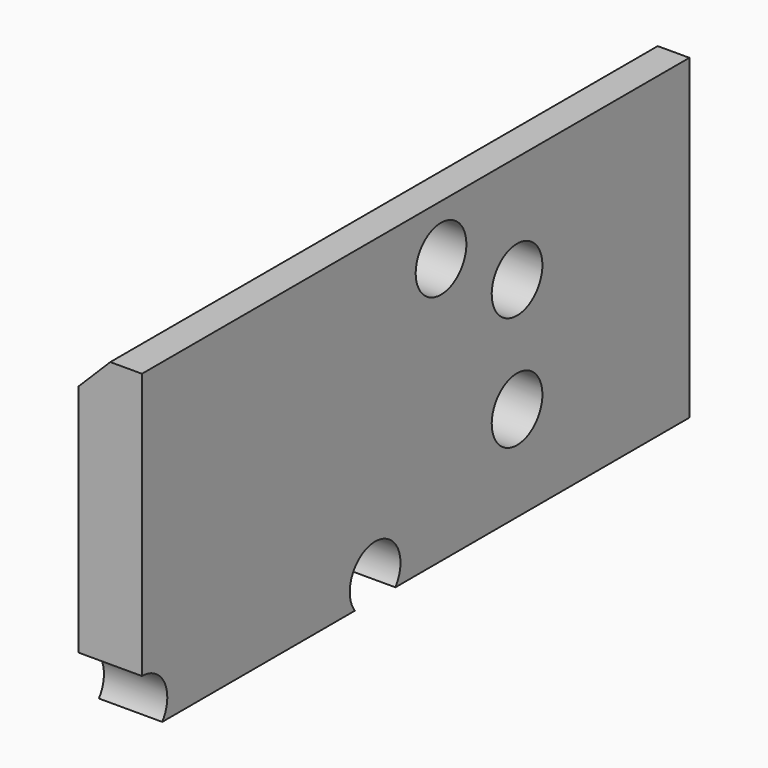
from build123d import *

# Parameters (mm, degrees)
CYLINDER455_R     = 5
CYLINDER455_DEPTH = 100
CYLINDER449_R     = 5
CYLINDER449_DEPTH = 100
CYLINDER457_R     = 5
CYLINDER457_DEPTH = 100
CYLINDER456_R     = 5
CYLINDER456_DEPTH = 100
CYLINDER450_R     = 5
CYLINDER450_DEPTH = 100
CYLINDER458_R     = 5
CYLINDER458_DEPTH = 100
CYLINDER451_R     = 5
CYLINDER451_DEPTH = 100
CYLINDER448_R     = 5
CYLINDER448_DEPTH = 100
BOX197_W          = 10
BOX197_H          = 108
BOX197_DEPTH      = 50
CHAMFER001_SIZE   = 5


with BuildPart() as obj1:
    # Cylinder455 → Cylinder455 (new body)
    with BuildSketch(Plane(origin=(24, -51, 25), x_dir=(0, 0, -1), z_dir=(1, 0, 0))):
        Circle(CYLINDER455_R)
    extrude(amount=CYLINDER455_DEPTH)


with BuildPart() as obj2:
    # Cylinder449 → Cylinder449 (new body)
    with BuildSketch(Plane(origin=(24, 36, 34), x_dir=(0, 0, -1), z_dir=(1, 0, 0))):
        Circle(CYLINDER449_R)
    extrude(amount=CYLINDER449_DEPTH)


with BuildPart() as obj3:
    # Cylinder457 → Cylinder457 (new body)
    with BuildSketch(Plane(origin=(24, -36, 34), x_dir=(0, 0, -1), z_dir=(1, 0, 0))):
        Circle(CYLINDER457_R)
    extrude(amount=CYLINDER457_DEPTH)


with BuildPart() as obj4:
    # Cylinder456 → Cylinder456 (new body)
    with BuildSketch(Plane(origin=(24, -23, -5), x_dir=(0, 0, -1), z_dir=(1, 0, 0))):
        Circle(CYLINDER456_R)
    extrude(amount=CYLINDER456_DEPTH)


with BuildPart() as obj5:
    # Cylinder450 → Cylinder450 (new body)
    with BuildSketch(Plane(origin=(24, 51, 7), x_dir=(0, 0, -1), z_dir=(1, 0, 0))):
        Circle(CYLINDER450_R)
    extrude(amount=CYLINDER450_DEPTH)


with BuildPart() as obj6:
    # Cylinder458 → Cylinder458 (new body)
    with BuildSketch(Plane(origin=(24, 23, -5), x_dir=(0, 0, -1), z_dir=(1, 0, 0))):
        Circle(CYLINDER458_R)
    extrude(amount=CYLINDER458_DEPTH)


with BuildPart() as obj7:
    # Cylinder451 → Cylinder451 (new body)
    with BuildSketch(Plane(origin=(24, -51, 7), x_dir=(0, 0, -1), z_dir=(1, 0, 0))):
        Circle(CYLINDER451_R)
    extrude(amount=CYLINDER451_DEPTH)


with BuildPart() as compound595:
    # Cylinder448 → Cylinder448 (new body)
    with BuildSketch(Plane(origin=(24, 51, 25), x_dir=(0, 0, -1), z_dir=(1, 0, 0))):
        Circle(CYLINDER448_R)
    extrude(amount=CYLINDER448_DEPTH)

    # Compound595: union obj1, obj2, obj3, obj4, obj5, obj6, obj7
    add(obj1.part)
    add(obj2.part)
    add(obj3.part)
    add(obj4.part)
    add(obj5.part)
    add(obj6.part)
    add(obj7.part)


with BuildPart() as compound595_1:
    # Compound595 placement: moved
    add(compound595.part.moved(Location((32, 0, 0))))


with BuildPart() as cut369:
    # Box197 → Box197 (new body)
    with BuildSketch(Plane(origin=(87, -29, -8), x_dir=(1, 0, 0), z_dir=(0, 0, 1))):
        with Locations((5, 54)):
            Rectangle(BOX197_W, BOX197_H)
    extrude(amount=BOX197_DEPTH)

    # Chamfer001
    chamfer001_edges = [cut369.edges().sort_by_distance(p)[0] for p in [
        (87, 25, 42),
    ]]
    chamfer(chamfer001_edges, length=CHAMFER001_SIZE)


with BuildPart() as cut369_1:
    # Chamfer001 placement: moved
    add(cut369.part.moved(Location((8, 6, 0))))

    # Cut369: cut Compound595
    add(compound595_1.part, mode=Mode.SUBTRACT)


solid = cut369_1.part
